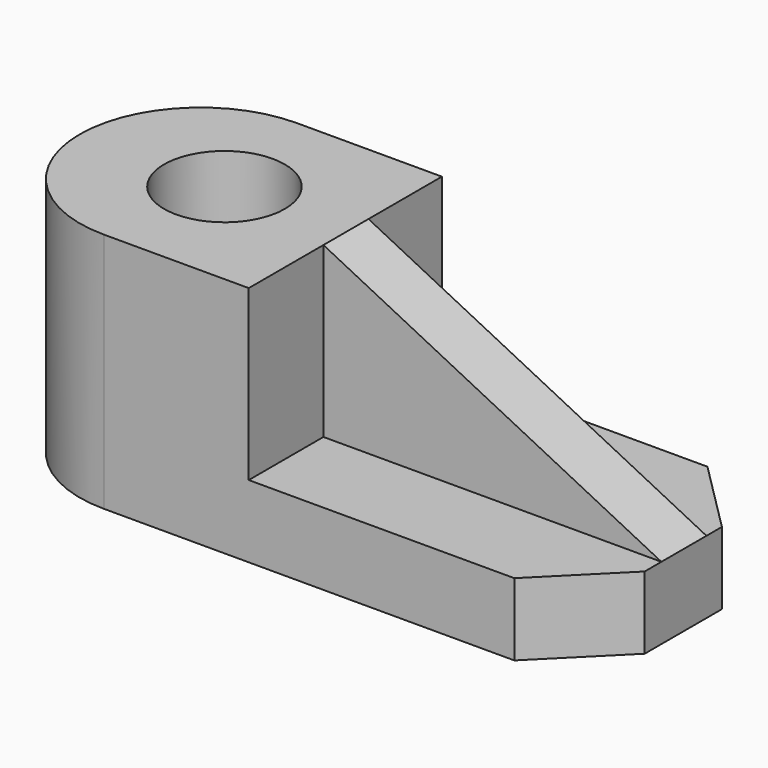
from build123d import *

# Parameters (mm, degrees)
F1_DEPTH  = 30
F2_R      = 7.5
F3_DEPTH  = 30
F4_W      = 30
F4_H      = 9
F5_DEPTH  = 42
F6_W      = 42
F6_H      = 7
F7_DEPTH  = 21
F9_DEPTH  = 25
F11_DEPTH = 25
F13_DEPTH = 25


with BuildPart() as f1:
    # F0 (on Top) → F1 (new body)
    with BuildSketch(Plane.XY):
        with BuildLine():
            Line((-3.158644, 9.040691), (-3.158644, 39.040691))
            Line((-3.158644, 39.040691), (-21.158644, 39.040691))
            ThreePointArc((-21.158644, 39.040691), (-36.158644, 24.040691), (-21.158644, 9.040691))
            Line((-21.158644, 9.040691), (-3.158644, 9.040691))
        make_face()
    extrude(amount=F1_DEPTH)

    # F2 (on face) → F3 (cut)
    with BuildSketch(Plane.XY.offset(30)):
        with Locations((-18.319141, 24.218176)):
            Circle(F2_R)
    extrude(amount=-F3_DEPTH, mode=Mode.SUBTRACT)

    # F4 (on face) → F5 (join)
    with BuildSketch(Plane.YZ.offset(-3.158644)):
        with Locations((24.040691, 4.5)):
            Rectangle(F4_W, F4_H)
    extrude(amount=F5_DEPTH)

    # F6 (on face) → F7 (join)
    with BuildSketch(Plane.XY.offset(9)):
        with Locations((17.841356, 24.140691)):
            Rectangle(F6_W, F6_H)
    extrude(amount=F7_DEPTH)

    # F8 (on face) → F9 (cut)
    with BuildSketch(Plane.XZ.offset(-20.640691)):
        Polygon((38.841356, 30), (-3.158644, 30), (38.841356, 9), align=None)
    extrude(amount=-F9_DEPTH, mode=Mode.SUBTRACT)

    # F10 (on face) → F11 (cut)
    with BuildSketch(Plane.XY.offset(9)):
        Polygon((38.841356, 30.040691), (38.841356, 39.040691), (29.841356, 39.040691), align=None)
    extrude(amount=-F11_DEPTH, mode=Mode.SUBTRACT)

    # F12 (on face) → F13 (cut)
    with BuildSketch(Plane.XY.offset(9)):
        Polygon((29.841356, 9.040691), (38.841356, 9.040691), (38.841356, 18.040691), align=None)
    extrude(amount=-F13_DEPTH, mode=Mode.SUBTRACT)


solid = f1.part
